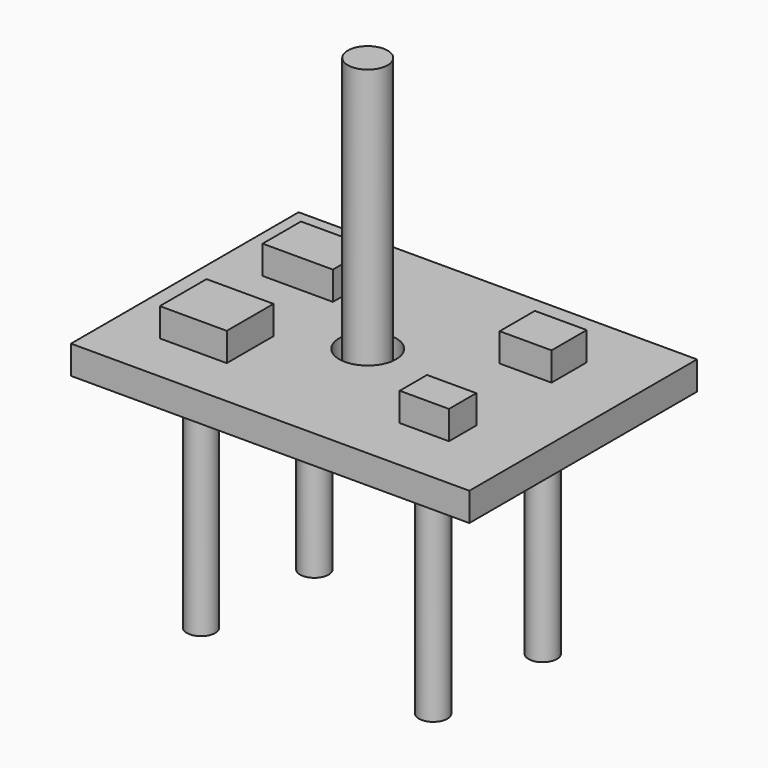
from build123d import *

# Parameters (mm, degrees)
F0_W      = 177.8
F0_H      = 127
F1_DEPTH  = 12.7
F2_R      = 12.7
F2_R_2    = 6.35
F3_DEPTH  = 25.4
F4_R      = 8.89
F5_DEPTH  = 127
F6_W      = 41.238896
F6_H      = 39.874394
F7_DEPTH  = 12.7
F9_R      = 6.35
F10_DEPTH = 101.6
F11_W     = 23.153082
F11_H     = 19.636153
F11_W_2   = 31.359231
F11_H_2   = 21.394614
F11_W_3   = 29.893847
F11_H_3   = 26.083842
F11_W_4   = 21.980763
F11_H_4   = 15.239998
F12_DEPTH = 12.7


with BuildPart() as f1:
    # F0 (on Top) → F1 (new body)
    with BuildSketch(Plane.XY):
        with Locations((88.9, -63.5)):
            Rectangle(F0_W, F0_H)
    extrude(amount=F1_DEPTH)

    # F2 (on face) → F3 (cut)
    with BuildSketch(Plane(origin=(0, 0, 0), x_dir=(1, 0, 0), z_dir=(0, 0, -1))):
        with Locations((83.17496, 65.431617)):
            Circle(F2_R)
        with Locations((135.812969, 94.718838)):
            Circle(F2_R_2)
        with Locations((137.483782, 35.68408)):
            Circle(F2_R_2)
        with Locations((35.56527, 35.68408)):
            Circle(F2_R_2)
        with Locations((32.223678, 94.718838)):
            Circle(F2_R_2)
    extrude(amount=-F3_DEPTH, mode=Mode.SUBTRACT)

    # F11 (on face) → F12 (join)
    with BuildSketch(Plane.XY.offset(12.7)):
        with Locations((137.624033, -35.584424)):
            Rectangle(F11_W, F11_H)
        with Locations((35.926347, -34.705194)):
            Rectangle(F11_W_2, F11_H_2)
        with Locations((36.659039, -91.562115)):
            Rectangle(F11_W_3, F11_H_3)
        with Locations((137.917116, -94.639428)):
            Rectangle(F11_W_4, F11_H_4)
    extrude(amount=F12_DEPTH)


with BuildPart() as f5:
    # F4 (on face) → F5 (new body)
    with BuildSketch(Plane(origin=(0, 0, 0), x_dir=(1, 0, 0), z_dir=(0, 0, -1))):
        with Locations((83.17496, 65.431617)):
            Circle(F4_R)
    extrude(amount=-F5_DEPTH)


with BuildPart() as f7:
    # F6 (on face) → F7 (new body)
    with BuildSketch(Plane(origin=(0, 0, 0), x_dir=(1, 0, 0), z_dir=(0, 0, -1))):
        with Locations((83.323773, 64.083038)):
            Rectangle(F6_W, F6_H)
    extrude(amount=F7_DEPTH)


with BuildPart() as f10:
    # F9 (on face) → F10 (new body)
    with BuildSketch(Plane(origin=(0, 0, 0), x_dir=(1, 0, 0), z_dir=(0, 0, -1))):
        with Locations((32.223678, 94.718838)):
            Circle(F9_R)
        with Locations((135.812969, 94.718838)):
            Circle(F9_R)
        with Locations((137.483782, 35.68408)):
            Circle(F9_R)
        with Locations((35.56527, 35.68408)):
            Circle(F9_R)
    extrude(amount=F10_DEPTH)


solid = Compound([f1.part, f5.part, f7.part, f10.part])
